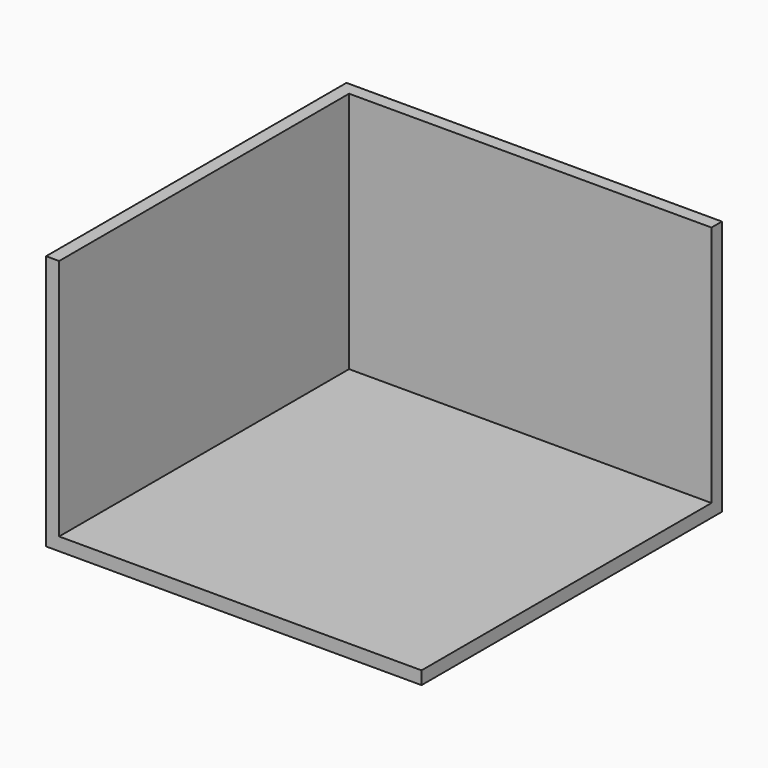
from build123d import *

# Parameters (mm, degrees)
F0_W     = 3657.6
F0_H     = 3657.6
F1_DEPTH = 2489.2
F2_T     = -127


with BuildPart() as f1:
    # F0 (on Top) → F1 (new body)
    with BuildSketch(Plane.XY):
        with Locations((1828.8, -1828.8)):
            Rectangle(F0_W, F0_H)
    extrude(amount=F1_DEPTH)

    # F2
    f2_openings = [f1.faces().sort_by_distance(p)[0] for p in [
        (1828.8, -1828.8, 2489.2),
        (1828.8, -3657.6, 1244.6),
        (3657.6, -1828.8, 1244.6),
    ]]
    offset(amount=F2_T, openings=f2_openings)


solid = f1.part
